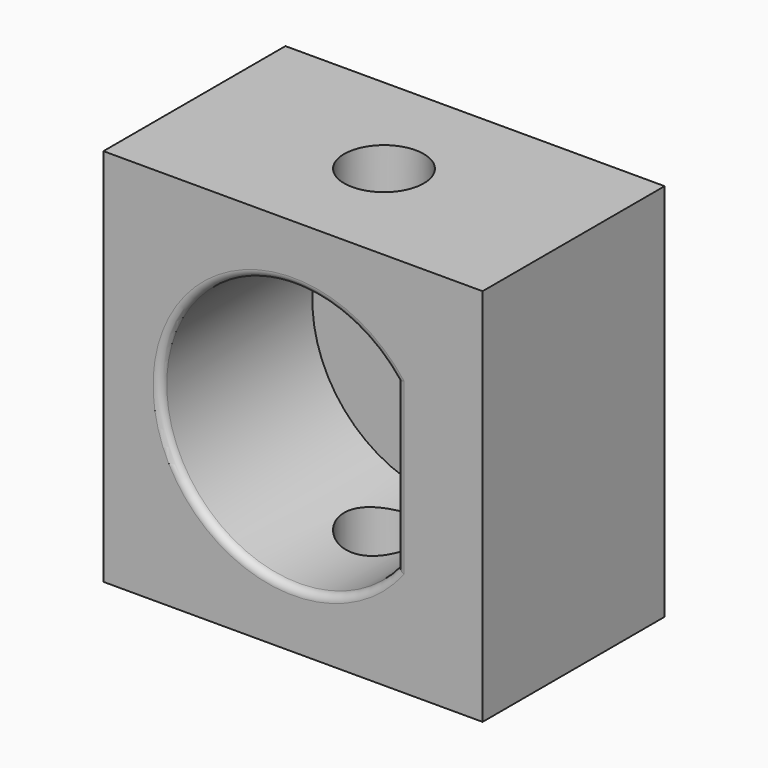
from build123d import *

# Parameters (mm, degrees)
F0_W     = 50
F0_H     = 50
F1_DEPTH = 30
F3_R     = 1
F4_W     = 50
F4_H     = 50
F5_DEPTH = 5
F6_D     = 10.5


with BuildPart() as f1:
    # F0 (on Front) → F1 (new body)
    with BuildSketch(Plane.XZ):
        Rectangle(F0_W, F0_H)
        with BuildLine():
            ThreePointArc((13.65, -10.8710625056), (-17.45, 0), (13.65, 10.8710625056))
            Line((13.65, 10.8710625056), (13.65, -10.8710625056))
        make_face(mode=Mode.SUBTRACT)
    extrude(amount=F1_DEPTH)

    # F3
    f3_edges = [f1.edges().sort_by_distance(p)[0] for p in [
        (13.65, -30, 0),
        (-17.45, -30, 0),
    ]]
    fillet(f3_edges, radius=F3_R)

    # F4 (on face) → F5 (join)
    with BuildSketch(Plane.XZ):
        Rectangle(F4_W, F4_H)
    extrude(amount=F5_DEPTH)

    # F6 (through all)
    with Locations(Plane(origin=(0, 0, -25), x_dir=(1, 0, 0), z_dir=(0, 0, -1))):
        with Locations((0, 15)):
            Hole(F6_D / 2)


solid = f1.part
